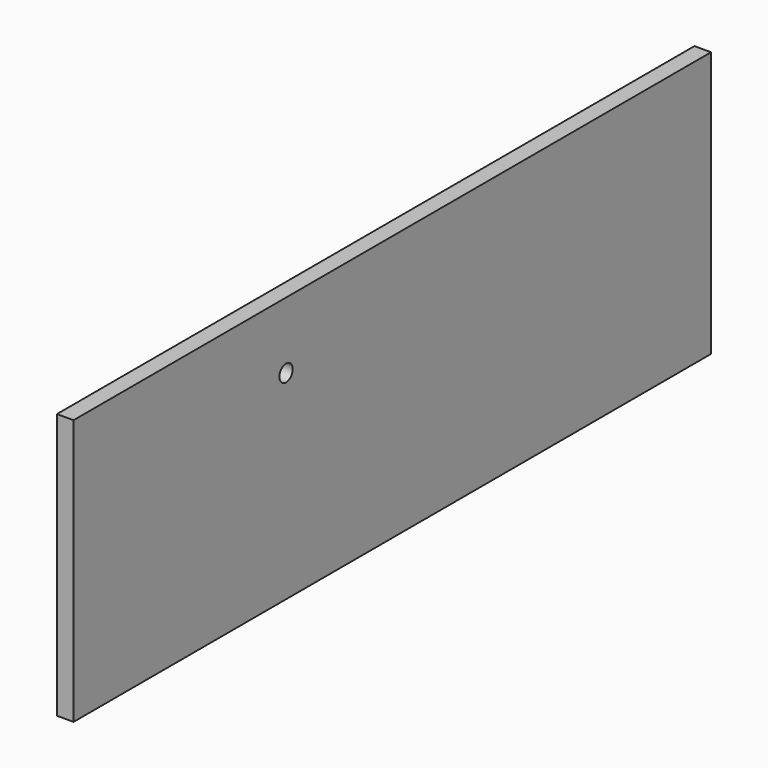
from build123d import *

# Parameters (mm, degrees)
F0_W     = 152.4
F0_H     = 50.8
F2_DEPTH = 1.5875
F1_R     = 1.5875
F3_DEPTH = 1.5875


with BuildPart() as f2:
    # F0 (on Right) → F2 (new body, symmetric)
    with BuildSketch(Plane.YZ):
        Rectangle(F0_W, F0_H)
    extrude(amount=F2_DEPTH, both=True)

    # F1 (on Right) → F3 (cut, symmetric)
    with BuildSketch(Plane.YZ):
        with Locations((-25.4, 12.7)):
            Circle(F1_R)
    extrude(amount=F3_DEPTH, both=True, mode=Mode.SUBTRACT)


solid = f2.part
